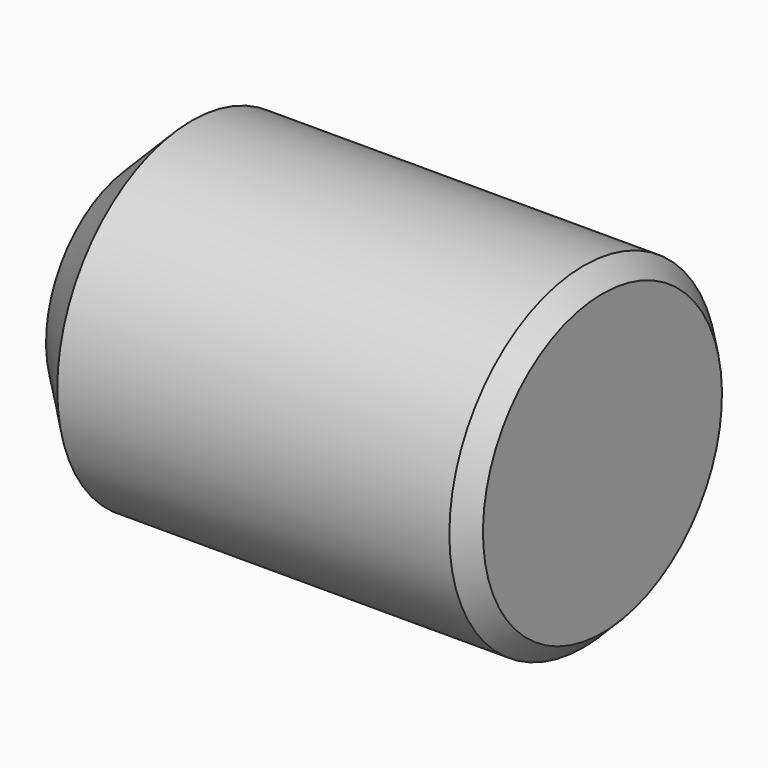
from build123d import *

# Parameters (mm, degrees)
F0_W     = 25
F0_H     = 9
F2_SIZE  = 1
F3_SIZE  = 3
F5_D     = 5
F5_DEPTH = 15
F5_TIP   = 1.5021515476


with BuildPart() as f1:
    # F0 (on Front) → F1 (revolve)
    with BuildSketch(Plane.XZ):
        with Locations((-12.5, 4.5)):
            Rectangle(F0_W, F0_H)
    revolve(axis=Axis((-12.5, 0, 0), (-1, 0, 0)))

    # F2
    f2_edges = [f1.edges().sort_by_distance(p)[0] for p in [
        (0, 0, -9),
    ]]
    chamfer(f2_edges, length=F2_SIZE)

    # F3
    f3_edges = [f1.edges().sort_by_distance(p)[0] for p in [
        (-25, 0, -9),
    ]]
    chamfer(f3_edges, length=F3_SIZE)

    # F5
    with Locations(Plane(origin=(-25, 0, 0), x_dir=(0, -1, 0), z_dir=(-1, 0, 0))):
        with Locations((0, 0)):
            Hole(F5_D / 2, depth=F5_DEPTH)
            with Locations((0, 0, -(F5_DEPTH + F5_TIP / 2))):  # 118° drill point
                Cone(0, F5_D / 2, F5_TIP, mode=Mode.SUBTRACT)


solid = f1.part
